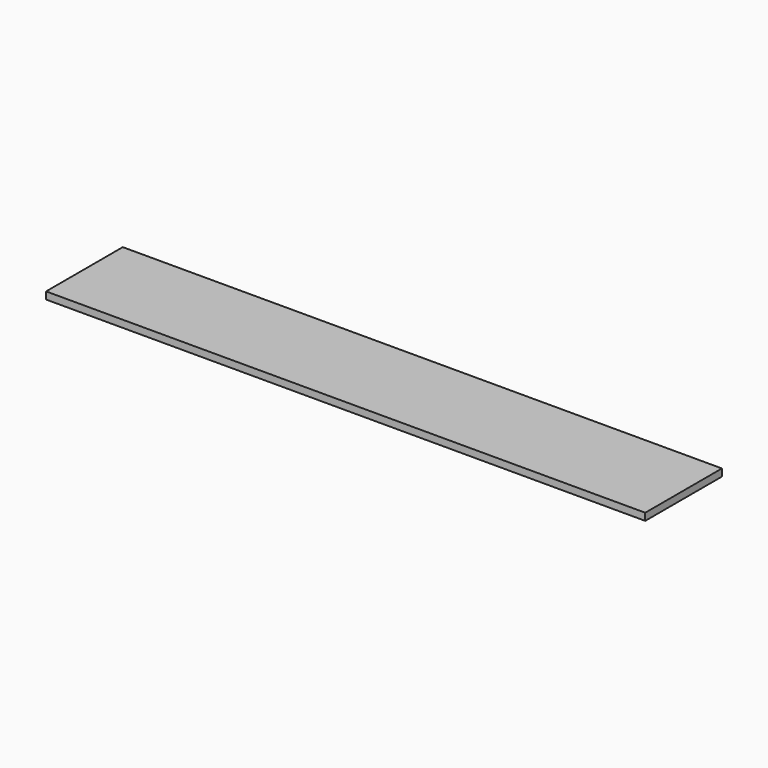
from build123d import *

# Parameters (mm, degrees)
SKETCH_W  = 250
SKETCH_H  = 40
PAD_DEPTH = 3


with BuildPart() as part:
    # Sketch → Pad (new body)
    with BuildSketch(Plane.XY):
        Rectangle(SKETCH_W, SKETCH_H)
    extrude(amount=PAD_DEPTH)


solid = part.part
